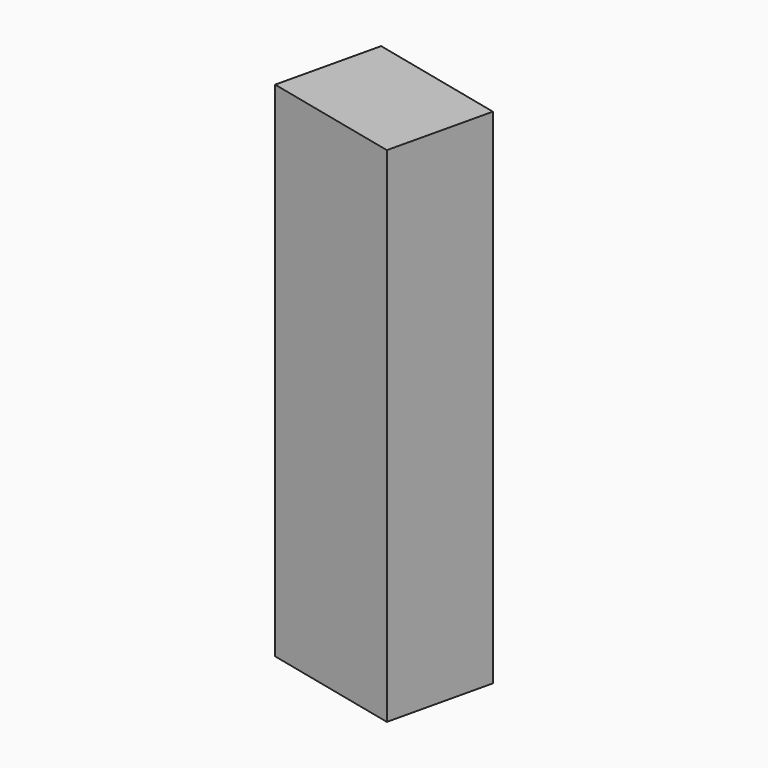
from build123d import *

# Parameters (mm, degrees)
F0_W     = 30.7318270206
F0_H     = 41.1479920149
F1_DEPTH = 146.8240264803
F2_ANGLE = 103.1302488819


with BuildPart() as f1:
    # F0 (on Top) → F1 (new body)
    with BuildSketch(Plane.XY):
        with Locations((0.2743899822, 0.0665560365)):
            Rectangle(F0_W, F0_H)
    extrude(amount=F1_DEPTH)


with BuildPart() as f1_1:
    # F2: moved
    add(f1.part.rotate(Axis((15.6403034925, -20.507439971, 73.4120132402), (0, 0, -1)), F2_ANGLE))


solid = f1_1.part
